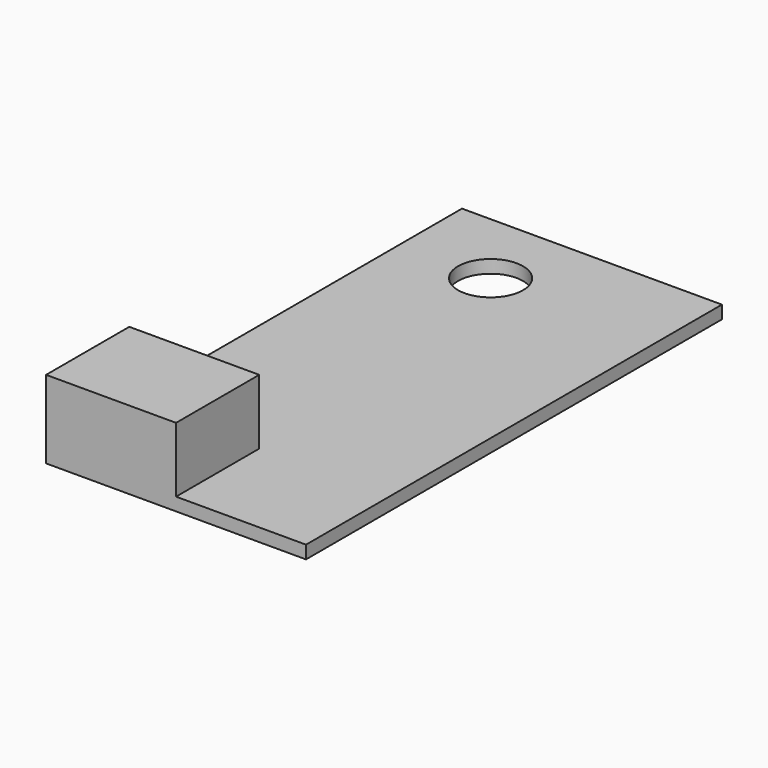
from build123d import *

# Parameters (mm, degrees)
F0_W     = 100
F0_H     = 200
F1_DEPTH = 5
F2_W     = 50
F2_H     = 40
F3_DEPTH = 25
F5_D     = 25


with BuildPart() as f1:
    # F0 (on Top) → F1 (new body)
    with BuildSketch(Plane.XY):
        Rectangle(F0_W, F0_H)
    extrude(amount=F1_DEPTH)

    # F2 (on face) → F3 (join)
    with BuildSketch(Plane.XY.offset(5)):
        with Locations((-25, -80)):
            Rectangle(F2_W, F2_H)
    extrude(amount=F3_DEPTH)

    # F5 (through all)
    with Locations(Plane.XY.offset(5)):
        with Locations((-15, 70)):
            Hole(F5_D / 2)


solid = f1.part
